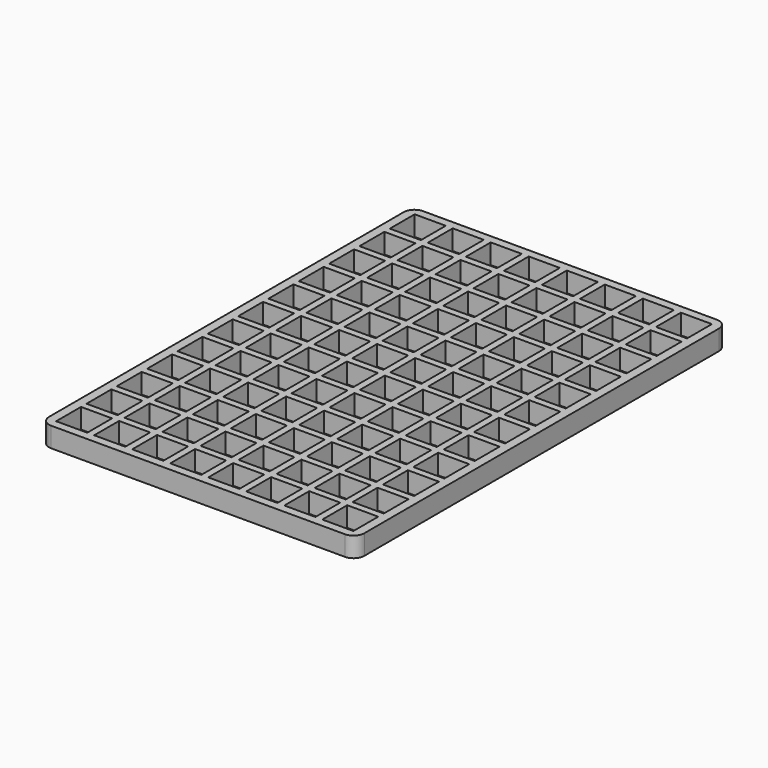
from build123d import *

# Parameters (mm, degrees)
F0_W     = 74.7522
F0_H     = 110.2106
F0_W_2   = 7.366
F0_H_2   = 7.366
F1_DEPTH = 4.7244
F2_R     = 2.54


with BuildPart() as f1:
    # F0 (on Top) → F1 (new body)
    with BuildSketch(Plane.XY):
        Rectangle(F0_W, F0_H)
        with Locations((-31.5595, -49.4411)):
            Rectangle(F0_W_2, F0_H_2, mode=Mode.SUBTRACT)
        with Locations((-22.5425, -49.4411)):
            Rectangle(F0_W_2, F0_H_2, mode=Mode.SUBTRACT)
        with Locations((-31.5595, -40.4495)):
            Rectangle(F0_W_2, F0_H_2, mode=Mode.SUBTRACT)
        with Locations((-31.5595, -31.4579)):
            Rectangle(F0_W_2, F0_H_2, mode=Mode.SUBTRACT)
        with Locations((-22.5425, -40.4495)):
            Rectangle(F0_W_2, F0_H_2, mode=Mode.SUBTRACT)
        with Locations((-22.5425, -31.4579)):
            Rectangle(F0_W_2, F0_H_2, mode=Mode.SUBTRACT)
        with Locations((-13.5255, -49.4411)):
            Rectangle(F0_W_2, F0_H_2, mode=Mode.SUBTRACT)
        with Locations((-4.5085, -49.4411)):
            Rectangle(F0_W_2, F0_H_2, mode=Mode.SUBTRACT)
        with Locations((-13.5255, -40.4495)):
            Rectangle(F0_W_2, F0_H_2, mode=Mode.SUBTRACT)
        with Locations((-13.5255, -31.4579)):
            Rectangle(F0_W_2, F0_H_2, mode=Mode.SUBTRACT)
        with Locations((-4.5085, -40.4495)):
            Rectangle(F0_W_2, F0_H_2, mode=Mode.SUBTRACT)
        with Locations((-4.5085, -31.4579)):
            Rectangle(F0_W_2, F0_H_2, mode=Mode.SUBTRACT)
        with Locations((-31.5595, -22.4663)):
            Rectangle(F0_W_2, F0_H_2, mode=Mode.SUBTRACT)
        with Locations((-22.5425, -22.4663)):
            Rectangle(F0_W_2, F0_H_2, mode=Mode.SUBTRACT)
        with Locations((-31.5595, -13.4747)):
            Rectangle(F0_W_2, F0_H_2, mode=Mode.SUBTRACT)
        with Locations((-31.5595, -4.4831)):
            Rectangle(F0_W_2, F0_H_2, mode=Mode.SUBTRACT)
        with Locations((-22.5425, -13.4747)):
            Rectangle(F0_W_2, F0_H_2, mode=Mode.SUBTRACT)
        with Locations((-22.5425, -4.4831)):
            Rectangle(F0_W_2, F0_H_2, mode=Mode.SUBTRACT)
        with Locations((-13.5255, -22.4663)):
            Rectangle(F0_W_2, F0_H_2, mode=Mode.SUBTRACT)
        with Locations((-4.5085, -22.4663)):
            Rectangle(F0_W_2, F0_H_2, mode=Mode.SUBTRACT)
        with Locations((-13.5255, -13.4747)):
            Rectangle(F0_W_2, F0_H_2, mode=Mode.SUBTRACT)
        with Locations((-13.5255, -4.4831)):
            Rectangle(F0_W_2, F0_H_2, mode=Mode.SUBTRACT)
        with Locations((-4.5085, -13.4747)):
            Rectangle(F0_W_2, F0_H_2, mode=Mode.SUBTRACT)
        with Locations((-4.5085, -4.4831)):
            Rectangle(F0_W_2, F0_H_2, mode=Mode.SUBTRACT)
        with Locations((4.5085, -49.4411)):
            Rectangle(F0_W_2, F0_H_2, mode=Mode.SUBTRACT)
        with Locations((13.5255, -49.4411)):
            Rectangle(F0_W_2, F0_H_2, mode=Mode.SUBTRACT)
        with Locations((4.5085, -40.4495)):
            Rectangle(F0_W_2, F0_H_2, mode=Mode.SUBTRACT)
        with Locations((4.5085, -31.4579)):
            Rectangle(F0_W_2, F0_H_2, mode=Mode.SUBTRACT)
        with Locations((13.5255, -40.4495)):
            Rectangle(F0_W_2, F0_H_2, mode=Mode.SUBTRACT)
        with Locations((13.5255, -31.4579)):
            Rectangle(F0_W_2, F0_H_2, mode=Mode.SUBTRACT)
        with Locations((22.5425, -49.4411)):
            Rectangle(F0_W_2, F0_H_2, mode=Mode.SUBTRACT)
        with Locations((31.5595, -49.4411)):
            Rectangle(F0_W_2, F0_H_2, mode=Mode.SUBTRACT)
        with Locations((22.5425, -40.4495)):
            Rectangle(F0_W_2, F0_H_2, mode=Mode.SUBTRACT)
        with Locations((22.5425, -31.4579)):
            Rectangle(F0_W_2, F0_H_2, mode=Mode.SUBTRACT)
        with Locations((31.5595, -40.4495)):
            Rectangle(F0_W_2, F0_H_2, mode=Mode.SUBTRACT)
        with Locations((31.5595, -31.4579)):
            Rectangle(F0_W_2, F0_H_2, mode=Mode.SUBTRACT)
        with Locations((4.5085, -22.4663)):
            Rectangle(F0_W_2, F0_H_2, mode=Mode.SUBTRACT)
        with Locations((13.5255, -22.4663)):
            Rectangle(F0_W_2, F0_H_2, mode=Mode.SUBTRACT)
        with Locations((4.5085, -13.4747)):
            Rectangle(F0_W_2, F0_H_2, mode=Mode.SUBTRACT)
        with Locations((4.5085, -4.4831)):
            Rectangle(F0_W_2, F0_H_2, mode=Mode.SUBTRACT)
        with Locations((13.5255, -13.4747)):
            Rectangle(F0_W_2, F0_H_2, mode=Mode.SUBTRACT)
        with Locations((13.5255, -4.4831)):
            Rectangle(F0_W_2, F0_H_2, mode=Mode.SUBTRACT)
        with Locations((22.5425, -22.4663)):
            Rectangle(F0_W_2, F0_H_2, mode=Mode.SUBTRACT)
        with Locations((31.5595, -22.4663)):
            Rectangle(F0_W_2, F0_H_2, mode=Mode.SUBTRACT)
        with Locations((22.5425, -13.4747)):
            Rectangle(F0_W_2, F0_H_2, mode=Mode.SUBTRACT)
        with Locations((22.5425, -4.4831)):
            Rectangle(F0_W_2, F0_H_2, mode=Mode.SUBTRACT)
        with Locations((31.5595, -13.4747)):
            Rectangle(F0_W_2, F0_H_2, mode=Mode.SUBTRACT)
        with Locations((31.5595, -4.4831)):
            Rectangle(F0_W_2, F0_H_2, mode=Mode.SUBTRACT)
        with Locations((-31.5595, 4.5085)):
            Rectangle(F0_W_2, F0_H_2, mode=Mode.SUBTRACT)
        with Locations((-31.5595, 13.5001)):
            Rectangle(F0_W_2, F0_H_2, mode=Mode.SUBTRACT)
        with Locations((-22.5425, 4.5085)):
            Rectangle(F0_W_2, F0_H_2, mode=Mode.SUBTRACT)
        with Locations((-22.5425, 13.5001)):
            Rectangle(F0_W_2, F0_H_2, mode=Mode.SUBTRACT)
        with Locations((-31.5595, 22.4917)):
            Rectangle(F0_W_2, F0_H_2, mode=Mode.SUBTRACT)
        with Locations((-22.5425, 22.4917)):
            Rectangle(F0_W_2, F0_H_2, mode=Mode.SUBTRACT)
        with Locations((-13.5255, 4.5085)):
            Rectangle(F0_W_2, F0_H_2, mode=Mode.SUBTRACT)
        with Locations((-13.5255, 13.5001)):
            Rectangle(F0_W_2, F0_H_2, mode=Mode.SUBTRACT)
        with Locations((-4.5085, 4.5085)):
            Rectangle(F0_W_2, F0_H_2, mode=Mode.SUBTRACT)
        with Locations((-4.5085, 13.5001)):
            Rectangle(F0_W_2, F0_H_2, mode=Mode.SUBTRACT)
        with Locations((-13.5255, 22.4917)):
            Rectangle(F0_W_2, F0_H_2, mode=Mode.SUBTRACT)
        with Locations((-4.5085, 22.4917)):
            Rectangle(F0_W_2, F0_H_2, mode=Mode.SUBTRACT)
        with Locations((-31.5595, 31.4833)):
            Rectangle(F0_W_2, F0_H_2, mode=Mode.SUBTRACT)
        with Locations((-31.5595, 40.4749)):
            Rectangle(F0_W_2, F0_H_2, mode=Mode.SUBTRACT)
        with Locations((-22.5425, 31.4833)):
            Rectangle(F0_W_2, F0_H_2, mode=Mode.SUBTRACT)
        with Locations((-22.5425, 40.4749)):
            Rectangle(F0_W_2, F0_H_2, mode=Mode.SUBTRACT)
        with Locations((-31.5595, 49.4665)):
            Rectangle(F0_W_2, F0_H_2, mode=Mode.SUBTRACT)
        with Locations((-22.5425, 49.4665)):
            Rectangle(F0_W_2, F0_H_2, mode=Mode.SUBTRACT)
        with Locations((-13.5255, 31.4833)):
            Rectangle(F0_W_2, F0_H_2, mode=Mode.SUBTRACT)
        with Locations((-13.5255, 40.4749)):
            Rectangle(F0_W_2, F0_H_2, mode=Mode.SUBTRACT)
        with Locations((-4.5085, 31.4833)):
            Rectangle(F0_W_2, F0_H_2, mode=Mode.SUBTRACT)
        with Locations((-4.5085, 40.4749)):
            Rectangle(F0_W_2, F0_H_2, mode=Mode.SUBTRACT)
        with Locations((-13.5255, 49.4665)):
            Rectangle(F0_W_2, F0_H_2, mode=Mode.SUBTRACT)
        with Locations((-4.5085, 49.4665)):
            Rectangle(F0_W_2, F0_H_2, mode=Mode.SUBTRACT)
        with Locations((4.5085, 4.5085)):
            Rectangle(F0_W_2, F0_H_2, mode=Mode.SUBTRACT)
        with Locations((4.5085, 13.5001)):
            Rectangle(F0_W_2, F0_H_2, mode=Mode.SUBTRACT)
        with Locations((13.5255, 4.5085)):
            Rectangle(F0_W_2, F0_H_2, mode=Mode.SUBTRACT)
        with Locations((13.5255, 13.5001)):
            Rectangle(F0_W_2, F0_H_2, mode=Mode.SUBTRACT)
        with Locations((4.5085, 22.4917)):
            Rectangle(F0_W_2, F0_H_2, mode=Mode.SUBTRACT)
        with Locations((13.5255, 22.4917)):
            Rectangle(F0_W_2, F0_H_2, mode=Mode.SUBTRACT)
        with Locations((22.5425, 4.5085)):
            Rectangle(F0_W_2, F0_H_2, mode=Mode.SUBTRACT)
        with Locations((22.5425, 13.5001)):
            Rectangle(F0_W_2, F0_H_2, mode=Mode.SUBTRACT)
        with Locations((31.5595, 4.5085)):
            Rectangle(F0_W_2, F0_H_2, mode=Mode.SUBTRACT)
        with Locations((31.5595, 13.5001)):
            Rectangle(F0_W_2, F0_H_2, mode=Mode.SUBTRACT)
        with Locations((22.5425, 22.4917)):
            Rectangle(F0_W_2, F0_H_2, mode=Mode.SUBTRACT)
        with Locations((31.5595, 22.4917)):
            Rectangle(F0_W_2, F0_H_2, mode=Mode.SUBTRACT)
        with Locations((4.5085, 31.4833)):
            Rectangle(F0_W_2, F0_H_2, mode=Mode.SUBTRACT)
        with Locations((4.5085, 40.4749)):
            Rectangle(F0_W_2, F0_H_2, mode=Mode.SUBTRACT)
        with Locations((13.5255, 31.4833)):
            Rectangle(F0_W_2, F0_H_2, mode=Mode.SUBTRACT)
        with Locations((13.5255, 40.4749)):
            Rectangle(F0_W_2, F0_H_2, mode=Mode.SUBTRACT)
        with Locations((4.5085, 49.4665)):
            Rectangle(F0_W_2, F0_H_2, mode=Mode.SUBTRACT)
        with Locations((13.5255, 49.4665)):
            Rectangle(F0_W_2, F0_H_2, mode=Mode.SUBTRACT)
        with Locations((22.5425, 31.4833)):
            Rectangle(F0_W_2, F0_H_2, mode=Mode.SUBTRACT)
        with Locations((22.5425, 40.4749)):
            Rectangle(F0_W_2, F0_H_2, mode=Mode.SUBTRACT)
        with Locations((31.5595, 31.4833)):
            Rectangle(F0_W_2, F0_H_2, mode=Mode.SUBTRACT)
        with Locations((31.5595, 40.4749)):
            Rectangle(F0_W_2, F0_H_2, mode=Mode.SUBTRACT)
        with Locations((22.5425, 49.4665)):
            Rectangle(F0_W_2, F0_H_2, mode=Mode.SUBTRACT)
        with Locations((31.5595, 49.4665)):
            Rectangle(F0_W_2, F0_H_2, mode=Mode.SUBTRACT)
    extrude(amount=F1_DEPTH)

    # F2
    f2_edges = [f1.edges().sort_by_distance(p)[0] for p in [
        (-37.3761, 55.1053, 2.3622),
        (-37.3761, -55.1053, 2.3622),
        (37.3761, -55.1053, 2.3622),
        (37.3761, 55.1053, 2.3622),
    ]]
    fillet(f2_edges, radius=F2_R)


solid = f1.part
